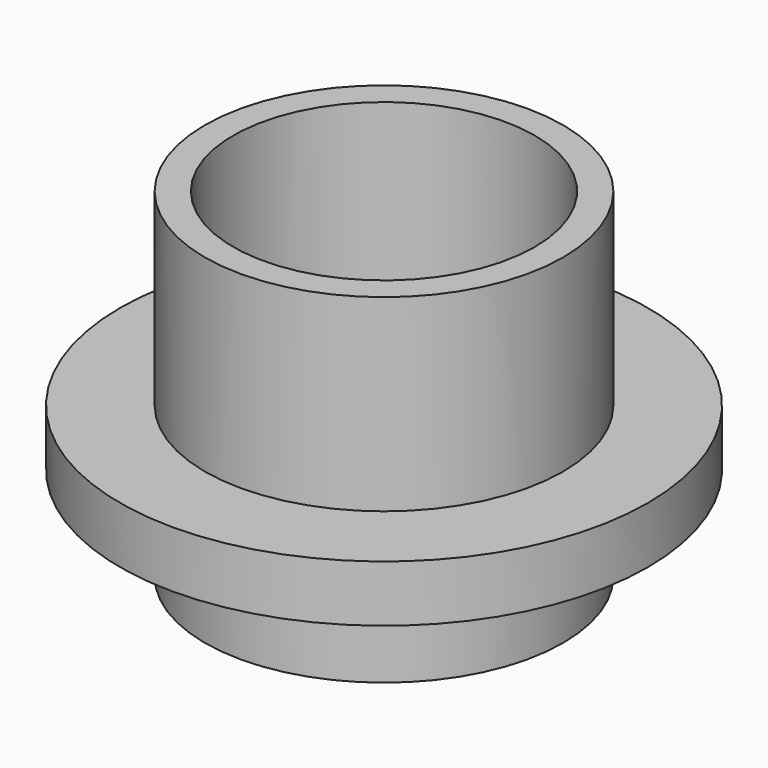
from build123d import *

# Parameters (mm, degrees)
F0_R     = 19
F1_DEPTH = 10
F2_R     = 28
F3_DEPTH = 6
F4_R     = 19
F5_DEPTH = 20
F6_R     = 16
F7_DEPTH = 36.001


with BuildPart() as f1:
    # F0 (on Top) → F1 (new body)
    with BuildSketch(Plane.XY):
        Circle(F0_R)
    extrude(amount=-F1_DEPTH)

    # F2 (on face) → F3 (join)
    with BuildSketch(Plane.XY):
        Circle(F2_R)
    extrude(amount=F3_DEPTH)

    # F4 (on face) → F5 (join)
    with BuildSketch(Plane.XY.offset(6)):
        Circle(F4_R)
    extrude(amount=F5_DEPTH)

    # F6 (on face) → F7 (cut, through all)
    with BuildSketch(Plane.XY.offset(26)):
        Circle(F6_R)
    extrude(amount=-F7_DEPTH, mode=Mode.SUBTRACT)


solid = f1.part
